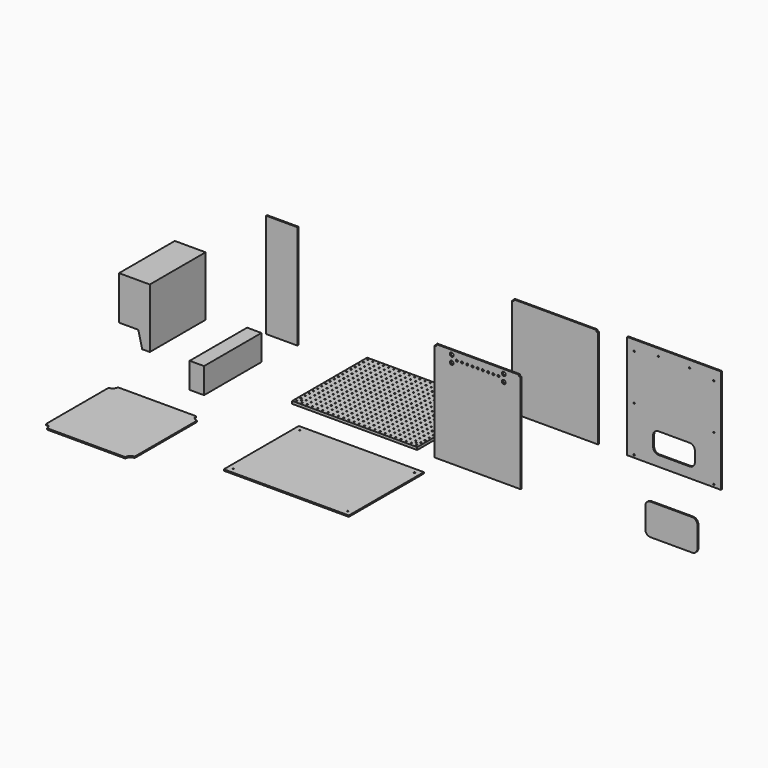
from build123d import *

# Parameters (mm, degrees)
F0_W      = 609.6
F0_H      = 457.2
F0_R      = 3.175
F1_DEPTH  = 12.7
F3_DEPTH  = 340
F4_W      = 70
F4_H      = 125
F5_DEPTH  = 350
F6_W      = 152.4
F6_H      = 6.35
F7_DEPTH  = 508
F8_W      = 609.6
F8_H      = 457.2
F8_R      = 3.175
F9_DEPTH  = 6.35
F11_DEPTH = 6.35
F13_R     = 4.7625
F13_R_2   = 9.2349540862
F14_DEPTH = 25.4
F17_DEPTH = 25.4
F19_DEPTH = 6.35
F21_DEPTH = 6.35
F22_W     = 7.62
F22_H     = 7.62
F23_DEPTH = 6.35
F24_R     = 3.175
F25_DEPTH = 25.4


with BuildPart() as f1:
    # F0 (on Top) → F1 (new body)
    with BuildSketch(Plane.XY):
        with Locations((304.8, 228.6)):
            Rectangle(F0_W, F0_H)
        with Locations((12.7, 12.7)):
            Circle(F0_R, mode=Mode.SUBTRACT)
        with Locations((25.4, 25.4)):
            Circle(F0_R, mode=Mode.SUBTRACT)
        with Locations((38.1, 12.7)):
            Circle(F0_R, mode=Mode.SUBTRACT)
        with Locations((63.5, 12.7)):
            Circle(F0_R, mode=Mode.SUBTRACT)
        with Locations((12.7, 38.1)):
            Circle(F0_R, mode=Mode.SUBTRACT)
        with Locations((38.1, 38.1)):
            Circle(F0_R, mode=Mode.SUBTRACT)
        with Locations((63.5, 38.1)):
            Circle(F0_R, mode=Mode.SUBTRACT)
        with Locations((88.9, 12.7)):
            Circle(F0_R, mode=Mode.SUBTRACT)
        with Locations((114.3, 12.7)):
            Circle(F0_R, mode=Mode.SUBTRACT)
        with Locations((139.7, 12.7)):
            Circle(F0_R, mode=Mode.SUBTRACT)
        with Locations((88.9, 38.1)):
            Circle(F0_R, mode=Mode.SUBTRACT)
        with Locations((114.3, 38.1)):
            Circle(F0_R, mode=Mode.SUBTRACT)
        with Locations((139.7, 38.1)):
            Circle(F0_R, mode=Mode.SUBTRACT)
        with Locations((12.7, 63.5)):
            Circle(F0_R, mode=Mode.SUBTRACT)
        with Locations((38.1, 63.5)):
            Circle(F0_R, mode=Mode.SUBTRACT)
        with Locations((63.5, 63.5)):
            Circle(F0_R, mode=Mode.SUBTRACT)
        with Locations((12.7, 88.9)):
            Circle(F0_R, mode=Mode.SUBTRACT)
        with Locations((38.1, 88.9)):
            Circle(F0_R, mode=Mode.SUBTRACT)
        with Locations((63.5, 88.9)):
            Circle(F0_R, mode=Mode.SUBTRACT)
        with Locations((88.9, 63.5)):
            Circle(F0_R, mode=Mode.SUBTRACT)
        with Locations((114.3, 63.5)):
            Circle(F0_R, mode=Mode.SUBTRACT)
        with Locations((139.7, 63.5)):
            Circle(F0_R, mode=Mode.SUBTRACT)
        with Locations((88.9, 88.9)):
            Circle(F0_R, mode=Mode.SUBTRACT)
        with Locations((114.3, 88.9)):
            Circle(F0_R, mode=Mode.SUBTRACT)
        with Locations((139.7, 88.9)):
            Circle(F0_R, mode=Mode.SUBTRACT)
        with Locations((165.1, 12.7)):
            Circle(F0_R, mode=Mode.SUBTRACT)
        with Locations((190.5, 12.7)):
            Circle(F0_R, mode=Mode.SUBTRACT)
        with Locations((215.9, 12.7)):
            Circle(F0_R, mode=Mode.SUBTRACT)
        with Locations((165.1, 38.1)):
            Circle(F0_R, mode=Mode.SUBTRACT)
        with Locations((190.5, 38.1)):
            Circle(F0_R, mode=Mode.SUBTRACT)
        with Locations((215.9, 38.1)):
            Circle(F0_R, mode=Mode.SUBTRACT)
        with Locations((241.3, 12.7)):
            Circle(F0_R, mode=Mode.SUBTRACT)
        with Locations((266.7, 12.7)):
            Circle(F0_R, mode=Mode.SUBTRACT)
        with Locations((292.1, 12.7)):
            Circle(F0_R, mode=Mode.SUBTRACT)
        with Locations((241.3, 38.1)):
            Circle(F0_R, mode=Mode.SUBTRACT)
        with Locations((266.7, 38.1)):
            Circle(F0_R, mode=Mode.SUBTRACT)
        with Locations((292.1, 38.1)):
            Circle(F0_R, mode=Mode.SUBTRACT)
        with Locations((165.1, 63.5)):
            Circle(F0_R, mode=Mode.SUBTRACT)
        with Locations((190.5, 63.5)):
            Circle(F0_R, mode=Mode.SUBTRACT)
        with Locations((215.9, 63.5)):
            Circle(F0_R, mode=Mode.SUBTRACT)
        with Locations((165.1, 88.9)):
            Circle(F0_R, mode=Mode.SUBTRACT)
        with Locations((190.5, 88.9)):
            Circle(F0_R, mode=Mode.SUBTRACT)
        with Locations((215.9, 88.9)):
            Circle(F0_R, mode=Mode.SUBTRACT)
        with Locations((241.3, 63.5)):
            Circle(F0_R, mode=Mode.SUBTRACT)
        with Locations((266.7, 63.5)):
            Circle(F0_R, mode=Mode.SUBTRACT)
        with Locations((292.1, 63.5)):
            Circle(F0_R, mode=Mode.SUBTRACT)
        with Locations((241.3, 88.9)):
            Circle(F0_R, mode=Mode.SUBTRACT)
        with Locations((266.7, 88.9)):
            Circle(F0_R, mode=Mode.SUBTRACT)
        with Locations((292.1, 88.9)):
            Circle(F0_R, mode=Mode.SUBTRACT)
        with Locations((12.7, 114.3)):
            Circle(F0_R, mode=Mode.SUBTRACT)
        with Locations((12.7, 139.7)):
            Circle(F0_R, mode=Mode.SUBTRACT)
        with Locations((38.1, 114.3)):
            Circle(F0_R, mode=Mode.SUBTRACT)
        with Locations((63.5, 114.3)):
            Circle(F0_R, mode=Mode.SUBTRACT)
        with Locations((38.1, 139.7)):
            Circle(F0_R, mode=Mode.SUBTRACT)
        with Locations((63.5, 139.7)):
            Circle(F0_R, mode=Mode.SUBTRACT)
        with Locations((12.7, 165.1)):
            Circle(F0_R, mode=Mode.SUBTRACT)
        with Locations((38.1, 165.1)):
            Circle(F0_R, mode=Mode.SUBTRACT)
        with Locations((63.5, 165.1)):
            Circle(F0_R, mode=Mode.SUBTRACT)
        with Locations((88.9, 114.3)):
            Circle(F0_R, mode=Mode.SUBTRACT)
        with Locations((88.9, 139.7)):
            Circle(F0_R, mode=Mode.SUBTRACT)
        with Locations((114.3, 114.3)):
            Circle(F0_R, mode=Mode.SUBTRACT)
        with Locations((139.7, 114.3)):
            Circle(F0_R, mode=Mode.SUBTRACT)
        with Locations((114.3, 139.7)):
            Circle(F0_R, mode=Mode.SUBTRACT)
        with Locations((139.7, 139.7)):
            Circle(F0_R, mode=Mode.SUBTRACT)
        with Locations((88.9, 165.1)):
            Circle(F0_R, mode=Mode.SUBTRACT)
        with Locations((114.3, 165.1)):
            Circle(F0_R, mode=Mode.SUBTRACT)
        with Locations((139.7, 165.1)):
            Circle(F0_R, mode=Mode.SUBTRACT)
        with Locations((12.7, 190.5)):
            Circle(F0_R, mode=Mode.SUBTRACT)
        with Locations((38.1, 190.5)):
            Circle(F0_R, mode=Mode.SUBTRACT)
        with Locations((63.5, 190.5)):
            Circle(F0_R, mode=Mode.SUBTRACT)
        with Locations((12.7, 215.9)):
            Circle(F0_R, mode=Mode.SUBTRACT)
        with Locations((38.1, 215.9)):
            Circle(F0_R, mode=Mode.SUBTRACT)
        with Locations((63.5, 215.9)):
            Circle(F0_R, mode=Mode.SUBTRACT)
        with Locations((88.9, 190.5)):
            Circle(F0_R, mode=Mode.SUBTRACT)
        with Locations((114.3, 190.5)):
            Circle(F0_R, mode=Mode.SUBTRACT)
        with Locations((139.7, 190.5)):
            Circle(F0_R, mode=Mode.SUBTRACT)
        with Locations((88.9, 215.9)):
            Circle(F0_R, mode=Mode.SUBTRACT)
        with Locations((114.3, 215.9)):
            Circle(F0_R, mode=Mode.SUBTRACT)
        with Locations((139.7, 215.9)):
            Circle(F0_R, mode=Mode.SUBTRACT)
        with Locations((165.1, 114.3)):
            Circle(F0_R, mode=Mode.SUBTRACT)
        with Locations((165.1, 139.7)):
            Circle(F0_R, mode=Mode.SUBTRACT)
        with Locations((190.5, 114.3)):
            Circle(F0_R, mode=Mode.SUBTRACT)
        with Locations((215.9, 114.3)):
            Circle(F0_R, mode=Mode.SUBTRACT)
        with Locations((190.5, 139.7)):
            Circle(F0_R, mode=Mode.SUBTRACT)
        with Locations((215.9, 139.7)):
            Circle(F0_R, mode=Mode.SUBTRACT)
        with Locations((165.1, 165.1)):
            Circle(F0_R, mode=Mode.SUBTRACT)
        with Locations((190.5, 165.1)):
            Circle(F0_R, mode=Mode.SUBTRACT)
        with Locations((215.9, 165.1)):
            Circle(F0_R, mode=Mode.SUBTRACT)
        with Locations((241.3, 114.3)):
            Circle(F0_R, mode=Mode.SUBTRACT)
        with Locations((241.3, 139.7)):
            Circle(F0_R, mode=Mode.SUBTRACT)
        with Locations((266.7, 114.3)):
            Circle(F0_R, mode=Mode.SUBTRACT)
        with Locations((292.1, 114.3)):
            Circle(F0_R, mode=Mode.SUBTRACT)
        with Locations((266.7, 139.7)):
            Circle(F0_R, mode=Mode.SUBTRACT)
        with Locations((292.1, 139.7)):
            Circle(F0_R, mode=Mode.SUBTRACT)
        with Locations((241.3, 165.1)):
            Circle(F0_R, mode=Mode.SUBTRACT)
        with Locations((266.7, 165.1)):
            Circle(F0_R, mode=Mode.SUBTRACT)
        with Locations((292.1, 165.1)):
            Circle(F0_R, mode=Mode.SUBTRACT)
        with Locations((165.1, 190.5)):
            Circle(F0_R, mode=Mode.SUBTRACT)
        with Locations((190.5, 190.5)):
            Circle(F0_R, mode=Mode.SUBTRACT)
        with Locations((215.9, 190.5)):
            Circle(F0_R, mode=Mode.SUBTRACT)
        with Locations((165.1, 215.9)):
            Circle(F0_R, mode=Mode.SUBTRACT)
        with Locations((190.5, 215.9)):
            Circle(F0_R, mode=Mode.SUBTRACT)
        with Locations((215.9, 215.9)):
            Circle(F0_R, mode=Mode.SUBTRACT)
        with Locations((241.3, 190.5)):
            Circle(F0_R, mode=Mode.SUBTRACT)
        with Locations((266.7, 190.5)):
            Circle(F0_R, mode=Mode.SUBTRACT)
        with Locations((292.1, 190.5)):
            Circle(F0_R, mode=Mode.SUBTRACT)
        with Locations((241.3, 215.9)):
            Circle(F0_R, mode=Mode.SUBTRACT)
        with Locations((266.7, 215.9)):
            Circle(F0_R, mode=Mode.SUBTRACT)
        with Locations((292.1, 215.9)):
            Circle(F0_R, mode=Mode.SUBTRACT)
        with Locations((317.5, 12.7)):
            Circle(F0_R, mode=Mode.SUBTRACT)
        with Locations((342.9, 12.7)):
            Circle(F0_R, mode=Mode.SUBTRACT)
        with Locations((368.3, 12.7)):
            Circle(F0_R, mode=Mode.SUBTRACT)
        with Locations((317.5, 38.1)):
            Circle(F0_R, mode=Mode.SUBTRACT)
        with Locations((342.9, 38.1)):
            Circle(F0_R, mode=Mode.SUBTRACT)
        with Locations((368.3, 38.1)):
            Circle(F0_R, mode=Mode.SUBTRACT)
        with Locations((393.7, 12.7)):
            Circle(F0_R, mode=Mode.SUBTRACT)
        with Locations((419.1, 12.7)):
            Circle(F0_R, mode=Mode.SUBTRACT)
        with Locations((444.5, 12.7)):
            Circle(F0_R, mode=Mode.SUBTRACT)
        with Locations((393.7, 38.1)):
            Circle(F0_R, mode=Mode.SUBTRACT)
        with Locations((419.1, 38.1)):
            Circle(F0_R, mode=Mode.SUBTRACT)
        with Locations((444.5, 38.1)):
            Circle(F0_R, mode=Mode.SUBTRACT)
        with Locations((317.5, 63.5)):
            Circle(F0_R, mode=Mode.SUBTRACT)
        with Locations((342.9, 63.5)):
            Circle(F0_R, mode=Mode.SUBTRACT)
        with Locations((368.3, 63.5)):
            Circle(F0_R, mode=Mode.SUBTRACT)
        with Locations((317.5, 88.9)):
            Circle(F0_R, mode=Mode.SUBTRACT)
        with Locations((342.9, 88.9)):
            Circle(F0_R, mode=Mode.SUBTRACT)
        with Locations((368.3, 88.9)):
            Circle(F0_R, mode=Mode.SUBTRACT)
        with Locations((393.7, 63.5)):
            Circle(F0_R, mode=Mode.SUBTRACT)
        with Locations((419.1, 63.5)):
            Circle(F0_R, mode=Mode.SUBTRACT)
        with Locations((444.5, 63.5)):
            Circle(F0_R, mode=Mode.SUBTRACT)
        with Locations((393.7, 88.9)):
            Circle(F0_R, mode=Mode.SUBTRACT)
        with Locations((419.1, 88.9)):
            Circle(F0_R, mode=Mode.SUBTRACT)
        with Locations((444.5, 88.9)):
            Circle(F0_R, mode=Mode.SUBTRACT)
        with Locations((469.9, 12.7)):
            Circle(F0_R, mode=Mode.SUBTRACT)
        with Locations((495.3, 12.7)):
            Circle(F0_R, mode=Mode.SUBTRACT)
        with Locations((520.7, 12.7)):
            Circle(F0_R, mode=Mode.SUBTRACT)
        with Locations((469.9, 38.1)):
            Circle(F0_R, mode=Mode.SUBTRACT)
        with Locations((495.3, 38.1)):
            Circle(F0_R, mode=Mode.SUBTRACT)
        with Locations((520.7, 38.1)):
            Circle(F0_R, mode=Mode.SUBTRACT)
        with Locations((546.1, 12.7)):
            Circle(F0_R, mode=Mode.SUBTRACT)
        with Locations((571.5, 12.7)):
            Circle(F0_R, mode=Mode.SUBTRACT)
        with Locations((596.9, 12.7)):
            Circle(F0_R, mode=Mode.SUBTRACT)
        with Locations((584.2, 25.4)):
            Circle(F0_R, mode=Mode.SUBTRACT)
        with Locations((546.1, 38.1)):
            Circle(F0_R, mode=Mode.SUBTRACT)
        with Locations((571.5, 38.1)):
            Circle(F0_R, mode=Mode.SUBTRACT)
        with Locations((596.9, 38.1)):
            Circle(F0_R, mode=Mode.SUBTRACT)
        with Locations((469.9, 63.5)):
            Circle(F0_R, mode=Mode.SUBTRACT)
        with Locations((495.3, 63.5)):
            Circle(F0_R, mode=Mode.SUBTRACT)
        with Locations((520.7, 63.5)):
            Circle(F0_R, mode=Mode.SUBTRACT)
        with Locations((469.9, 88.9)):
            Circle(F0_R, mode=Mode.SUBTRACT)
        with Locations((495.3, 88.9)):
            Circle(F0_R, mode=Mode.SUBTRACT)
        with Locations((520.7, 88.9)):
            Circle(F0_R, mode=Mode.SUBTRACT)
        with Locations((546.1, 63.5)):
            Circle(F0_R, mode=Mode.SUBTRACT)
        with Locations((571.5, 63.5)):
            Circle(F0_R, mode=Mode.SUBTRACT)
        with Locations((596.9, 63.5)):
            Circle(F0_R, mode=Mode.SUBTRACT)
        with Locations((546.1, 88.9)):
            Circle(F0_R, mode=Mode.SUBTRACT)
        with Locations((571.5, 88.9)):
            Circle(F0_R, mode=Mode.SUBTRACT)
        with Locations((596.9, 88.9)):
            Circle(F0_R, mode=Mode.SUBTRACT)
        with Locations((317.5, 114.3)):
            Circle(F0_R, mode=Mode.SUBTRACT)
        with Locations((317.5, 139.7)):
            Circle(F0_R, mode=Mode.SUBTRACT)
        with Locations((342.9, 114.3)):
            Circle(F0_R, mode=Mode.SUBTRACT)
        with Locations((368.3, 114.3)):
            Circle(F0_R, mode=Mode.SUBTRACT)
        with Locations((342.9, 139.7)):
            Circle(F0_R, mode=Mode.SUBTRACT)
        with Locations((368.3, 139.7)):
            Circle(F0_R, mode=Mode.SUBTRACT)
        with Locations((317.5, 165.1)):
            Circle(F0_R, mode=Mode.SUBTRACT)
        with Locations((342.9, 165.1)):
            Circle(F0_R, mode=Mode.SUBTRACT)
        with Locations((368.3, 165.1)):
            Circle(F0_R, mode=Mode.SUBTRACT)
        with Locations((393.7, 114.3)):
            Circle(F0_R, mode=Mode.SUBTRACT)
        with Locations((393.7, 139.7)):
            Circle(F0_R, mode=Mode.SUBTRACT)
        with Locations((419.1, 114.3)):
            Circle(F0_R, mode=Mode.SUBTRACT)
        with Locations((444.5, 114.3)):
            Circle(F0_R, mode=Mode.SUBTRACT)
        with Locations((419.1, 139.7)):
            Circle(F0_R, mode=Mode.SUBTRACT)
        with Locations((444.5, 139.7)):
            Circle(F0_R, mode=Mode.SUBTRACT)
        with Locations((393.7, 165.1)):
            Circle(F0_R, mode=Mode.SUBTRACT)
        with Locations((419.1, 165.1)):
            Circle(F0_R, mode=Mode.SUBTRACT)
        with Locations((444.5, 165.1)):
            Circle(F0_R, mode=Mode.SUBTRACT)
        with Locations((317.5, 190.5)):
            Circle(F0_R, mode=Mode.SUBTRACT)
        with Locations((342.9, 190.5)):
            Circle(F0_R, mode=Mode.SUBTRACT)
        with Locations((368.3, 190.5)):
            Circle(F0_R, mode=Mode.SUBTRACT)
        with Locations((317.5, 215.9)):
            Circle(F0_R, mode=Mode.SUBTRACT)
        with Locations((342.9, 215.9)):
            Circle(F0_R, mode=Mode.SUBTRACT)
        with Locations((368.3, 215.9)):
            Circle(F0_R, mode=Mode.SUBTRACT)
        with Locations((393.7, 190.5)):
            Circle(F0_R, mode=Mode.SUBTRACT)
        with Locations((419.1, 190.5)):
            Circle(F0_R, mode=Mode.SUBTRACT)
        with Locations((444.5, 190.5)):
            Circle(F0_R, mode=Mode.SUBTRACT)
        with Locations((393.7, 215.9)):
            Circle(F0_R, mode=Mode.SUBTRACT)
        with Locations((419.1, 215.9)):
            Circle(F0_R, mode=Mode.SUBTRACT)
        with Locations((444.5, 215.9)):
            Circle(F0_R, mode=Mode.SUBTRACT)
        with Locations((469.9, 114.3)):
            Circle(F0_R, mode=Mode.SUBTRACT)
        with Locations((469.9, 139.7)):
            Circle(F0_R, mode=Mode.SUBTRACT)
        with Locations((495.3, 114.3)):
            Circle(F0_R, mode=Mode.SUBTRACT)
        with Locations((520.7, 114.3)):
            Circle(F0_R, mode=Mode.SUBTRACT)
        with Locations((495.3, 139.7)):
            Circle(F0_R, mode=Mode.SUBTRACT)
        with Locations((520.7, 139.7)):
            Circle(F0_R, mode=Mode.SUBTRACT)
        with Locations((469.9, 165.1)):
            Circle(F0_R, mode=Mode.SUBTRACT)
        with Locations((495.3, 165.1)):
            Circle(F0_R, mode=Mode.SUBTRACT)
        with Locations((520.7, 165.1)):
            Circle(F0_R, mode=Mode.SUBTRACT)
        with Locations((546.1, 114.3)):
            Circle(F0_R, mode=Mode.SUBTRACT)
        with Locations((546.1, 139.7)):
            Circle(F0_R, mode=Mode.SUBTRACT)
        with Locations((571.5, 114.3)):
            Circle(F0_R, mode=Mode.SUBTRACT)
        with Locations((596.9, 114.3)):
            Circle(F0_R, mode=Mode.SUBTRACT)
        with Locations((571.5, 139.7)):
            Circle(F0_R, mode=Mode.SUBTRACT)
        with Locations((596.9, 139.7)):
            Circle(F0_R, mode=Mode.SUBTRACT)
        with Locations((546.1, 165.1)):
            Circle(F0_R, mode=Mode.SUBTRACT)
        with Locations((571.5, 165.1)):
            Circle(F0_R, mode=Mode.SUBTRACT)
        with Locations((596.9, 165.1)):
            Circle(F0_R, mode=Mode.SUBTRACT)
        with Locations((469.9, 190.5)):
            Circle(F0_R, mode=Mode.SUBTRACT)
        with Locations((495.3, 190.5)):
            Circle(F0_R, mode=Mode.SUBTRACT)
        with Locations((520.7, 190.5)):
            Circle(F0_R, mode=Mode.SUBTRACT)
        with Locations((469.9, 215.9)):
            Circle(F0_R, mode=Mode.SUBTRACT)
        with Locations((495.3, 215.9)):
            Circle(F0_R, mode=Mode.SUBTRACT)
        with Locations((520.7, 215.9)):
            Circle(F0_R, mode=Mode.SUBTRACT)
        with Locations((546.1, 190.5)):
            Circle(F0_R, mode=Mode.SUBTRACT)
        with Locations((571.5, 190.5)):
            Circle(F0_R, mode=Mode.SUBTRACT)
        with Locations((596.9, 190.5)):
            Circle(F0_R, mode=Mode.SUBTRACT)
        with Locations((546.1, 215.9)):
            Circle(F0_R, mode=Mode.SUBTRACT)
        with Locations((571.5, 215.9)):
            Circle(F0_R, mode=Mode.SUBTRACT)
        with Locations((596.9, 215.9)):
            Circle(F0_R, mode=Mode.SUBTRACT)
        with Locations((12.7, 241.3)):
            Circle(F0_R, mode=Mode.SUBTRACT)
        with Locations((38.1, 241.3)):
            Circle(F0_R, mode=Mode.SUBTRACT)
        with Locations((63.5, 241.3)):
            Circle(F0_R, mode=Mode.SUBTRACT)
        with Locations((12.7, 266.7)):
            Circle(F0_R, mode=Mode.SUBTRACT)
        with Locations((38.1, 266.7)):
            Circle(F0_R, mode=Mode.SUBTRACT)
        with Locations((63.5, 266.7)):
            Circle(F0_R, mode=Mode.SUBTRACT)
        with Locations((88.9, 241.3)):
            Circle(F0_R, mode=Mode.SUBTRACT)
        with Locations((114.3, 241.3)):
            Circle(F0_R, mode=Mode.SUBTRACT)
        with Locations((139.7, 241.3)):
            Circle(F0_R, mode=Mode.SUBTRACT)
        with Locations((88.9, 266.7)):
            Circle(F0_R, mode=Mode.SUBTRACT)
        with Locations((114.3, 266.7)):
            Circle(F0_R, mode=Mode.SUBTRACT)
        with Locations((139.7, 266.7)):
            Circle(F0_R, mode=Mode.SUBTRACT)
        with Locations((12.7, 292.1)):
            Circle(F0_R, mode=Mode.SUBTRACT)
        with Locations((38.1, 292.1)):
            Circle(F0_R, mode=Mode.SUBTRACT)
        with Locations((63.5, 292.1)):
            Circle(F0_R, mode=Mode.SUBTRACT)
        with Locations((12.7, 317.5)):
            Circle(F0_R, mode=Mode.SUBTRACT)
        with Locations((38.1, 317.5)):
            Circle(F0_R, mode=Mode.SUBTRACT)
        with Locations((63.5, 317.5)):
            Circle(F0_R, mode=Mode.SUBTRACT)
        with Locations((88.9, 292.1)):
            Circle(F0_R, mode=Mode.SUBTRACT)
        with Locations((114.3, 292.1)):
            Circle(F0_R, mode=Mode.SUBTRACT)
        with Locations((139.7, 292.1)):
            Circle(F0_R, mode=Mode.SUBTRACT)
        with Locations((88.9, 317.5)):
            Circle(F0_R, mode=Mode.SUBTRACT)
        with Locations((114.3, 317.5)):
            Circle(F0_R, mode=Mode.SUBTRACT)
        with Locations((139.7, 317.5)):
            Circle(F0_R, mode=Mode.SUBTRACT)
        with Locations((165.1, 241.3)):
            Circle(F0_R, mode=Mode.SUBTRACT)
        with Locations((190.5, 241.3)):
            Circle(F0_R, mode=Mode.SUBTRACT)
        with Locations((215.9, 241.3)):
            Circle(F0_R, mode=Mode.SUBTRACT)
        with Locations((165.1, 266.7)):
            Circle(F0_R, mode=Mode.SUBTRACT)
        with Locations((190.5, 266.7)):
            Circle(F0_R, mode=Mode.SUBTRACT)
        with Locations((215.9, 266.7)):
            Circle(F0_R, mode=Mode.SUBTRACT)
        with Locations((241.3, 241.3)):
            Circle(F0_R, mode=Mode.SUBTRACT)
        with Locations((266.7, 241.3)):
            Circle(F0_R, mode=Mode.SUBTRACT)
        with Locations((292.1, 241.3)):
            Circle(F0_R, mode=Mode.SUBTRACT)
        with Locations((241.3, 266.7)):
            Circle(F0_R, mode=Mode.SUBTRACT)
        with Locations((266.7, 266.7)):
            Circle(F0_R, mode=Mode.SUBTRACT)
        with Locations((292.1, 266.7)):
            Circle(F0_R, mode=Mode.SUBTRACT)
        with Locations((165.1, 292.1)):
            Circle(F0_R, mode=Mode.SUBTRACT)
        with Locations((190.5, 292.1)):
            Circle(F0_R, mode=Mode.SUBTRACT)
        with Locations((215.9, 292.1)):
            Circle(F0_R, mode=Mode.SUBTRACT)
        with Locations((165.1, 317.5)):
            Circle(F0_R, mode=Mode.SUBTRACT)
        with Locations((190.5, 317.5)):
            Circle(F0_R, mode=Mode.SUBTRACT)
        with Locations((215.9, 317.5)):
            Circle(F0_R, mode=Mode.SUBTRACT)
        with Locations((241.3, 292.1)):
            Circle(F0_R, mode=Mode.SUBTRACT)
        with Locations((266.7, 292.1)):
            Circle(F0_R, mode=Mode.SUBTRACT)
        with Locations((292.1, 292.1)):
            Circle(F0_R, mode=Mode.SUBTRACT)
        with Locations((241.3, 317.5)):
            Circle(F0_R, mode=Mode.SUBTRACT)
        with Locations((266.7, 317.5)):
            Circle(F0_R, mode=Mode.SUBTRACT)
        with Locations((292.1, 317.5)):
            Circle(F0_R, mode=Mode.SUBTRACT)
        with Locations((12.7, 342.9)):
            Circle(F0_R, mode=Mode.SUBTRACT)
        with Locations((12.7, 368.3)):
            Circle(F0_R, mode=Mode.SUBTRACT)
        with Locations((38.1, 342.9)):
            Circle(F0_R, mode=Mode.SUBTRACT)
        with Locations((63.5, 342.9)):
            Circle(F0_R, mode=Mode.SUBTRACT)
        with Locations((38.1, 368.3)):
            Circle(F0_R, mode=Mode.SUBTRACT)
        with Locations((63.5, 368.3)):
            Circle(F0_R, mode=Mode.SUBTRACT)
        with Locations((12.7, 393.7)):
            Circle(F0_R, mode=Mode.SUBTRACT)
        with Locations((38.1, 393.7)):
            Circle(F0_R, mode=Mode.SUBTRACT)
        with Locations((63.5, 393.7)):
            Circle(F0_R, mode=Mode.SUBTRACT)
        with Locations((88.9, 342.9)):
            Circle(F0_R, mode=Mode.SUBTRACT)
        with Locations((88.9, 368.3)):
            Circle(F0_R, mode=Mode.SUBTRACT)
        with Locations((114.3, 342.9)):
            Circle(F0_R, mode=Mode.SUBTRACT)
        with Locations((139.7, 342.9)):
            Circle(F0_R, mode=Mode.SUBTRACT)
        with Locations((114.3, 368.3)):
            Circle(F0_R, mode=Mode.SUBTRACT)
        with Locations((139.7, 368.3)):
            Circle(F0_R, mode=Mode.SUBTRACT)
        with Locations((88.9, 393.7)):
            Circle(F0_R, mode=Mode.SUBTRACT)
        with Locations((114.3, 393.7)):
            Circle(F0_R, mode=Mode.SUBTRACT)
        with Locations((139.7, 393.7)):
            Circle(F0_R, mode=Mode.SUBTRACT)
        with Locations((12.7, 419.1)):
            Circle(F0_R, mode=Mode.SUBTRACT)
        with Locations((38.1, 419.1)):
            Circle(F0_R, mode=Mode.SUBTRACT)
        with Locations((63.5, 419.1)):
            Circle(F0_R, mode=Mode.SUBTRACT)
        with Locations((12.7, 444.5)):
            Circle(F0_R, mode=Mode.SUBTRACT)
        with Locations((38.1, 444.5)):
            Circle(F0_R, mode=Mode.SUBTRACT)
        with Locations((63.5, 444.5)):
            Circle(F0_R, mode=Mode.SUBTRACT)
        with Locations((88.9, 419.1)):
            Circle(F0_R, mode=Mode.SUBTRACT)
        with Locations((114.3, 419.1)):
            Circle(F0_R, mode=Mode.SUBTRACT)
        with Locations((139.7, 419.1)):
            Circle(F0_R, mode=Mode.SUBTRACT)
        with Locations((88.9, 444.5)):
            Circle(F0_R, mode=Mode.SUBTRACT)
        with Locations((114.3, 444.5)):
            Circle(F0_R, mode=Mode.SUBTRACT)
        with Locations((139.7, 444.5)):
            Circle(F0_R, mode=Mode.SUBTRACT)
        with Locations((165.1, 342.9)):
            Circle(F0_R, mode=Mode.SUBTRACT)
        with Locations((165.1, 368.3)):
            Circle(F0_R, mode=Mode.SUBTRACT)
        with Locations((190.5, 342.9)):
            Circle(F0_R, mode=Mode.SUBTRACT)
        with Locations((215.9, 342.9)):
            Circle(F0_R, mode=Mode.SUBTRACT)
        with Locations((190.5, 368.3)):
            Circle(F0_R, mode=Mode.SUBTRACT)
        with Locations((215.9, 368.3)):
            Circle(F0_R, mode=Mode.SUBTRACT)
        with Locations((165.1, 393.7)):
            Circle(F0_R, mode=Mode.SUBTRACT)
        with Locations((190.5, 393.7)):
            Circle(F0_R, mode=Mode.SUBTRACT)
        with Locations((215.9, 393.7)):
            Circle(F0_R, mode=Mode.SUBTRACT)
        with Locations((241.3, 342.9)):
            Circle(F0_R, mode=Mode.SUBTRACT)
        with Locations((241.3, 368.3)):
            Circle(F0_R, mode=Mode.SUBTRACT)
        with Locations((266.7, 342.9)):
            Circle(F0_R, mode=Mode.SUBTRACT)
        with Locations((292.1, 342.9)):
            Circle(F0_R, mode=Mode.SUBTRACT)
        with Locations((266.7, 368.3)):
            Circle(F0_R, mode=Mode.SUBTRACT)
        with Locations((292.1, 368.3)):
            Circle(F0_R, mode=Mode.SUBTRACT)
        with Locations((241.3, 393.7)):
            Circle(F0_R, mode=Mode.SUBTRACT)
        with Locations((266.7, 393.7)):
            Circle(F0_R, mode=Mode.SUBTRACT)
        with Locations((292.1, 393.7)):
            Circle(F0_R, mode=Mode.SUBTRACT)
        with Locations((165.1, 419.1)):
            Circle(F0_R, mode=Mode.SUBTRACT)
        with Locations((190.5, 419.1)):
            Circle(F0_R, mode=Mode.SUBTRACT)
        with Locations((215.9, 419.1)):
            Circle(F0_R, mode=Mode.SUBTRACT)
        with Locations((165.1, 444.5)):
            Circle(F0_R, mode=Mode.SUBTRACT)
        with Locations((190.5, 444.5)):
            Circle(F0_R, mode=Mode.SUBTRACT)
        with Locations((215.9, 444.5)):
            Circle(F0_R, mode=Mode.SUBTRACT)
        with Locations((241.3, 419.1)):
            Circle(F0_R, mode=Mode.SUBTRACT)
        with Locations((266.7, 419.1)):
            Circle(F0_R, mode=Mode.SUBTRACT)
        with Locations((292.1, 419.1)):
            Circle(F0_R, mode=Mode.SUBTRACT)
        with Locations((241.3, 444.5)):
            Circle(F0_R, mode=Mode.SUBTRACT)
        with Locations((266.7, 444.5)):
            Circle(F0_R, mode=Mode.SUBTRACT)
        with Locations((292.1, 444.5)):
            Circle(F0_R, mode=Mode.SUBTRACT)
        with Locations((317.5, 241.3)):
            Circle(F0_R, mode=Mode.SUBTRACT)
        with Locations((342.9, 241.3)):
            Circle(F0_R, mode=Mode.SUBTRACT)
        with Locations((368.3, 241.3)):
            Circle(F0_R, mode=Mode.SUBTRACT)
        with Locations((317.5, 266.7)):
            Circle(F0_R, mode=Mode.SUBTRACT)
        with Locations((342.9, 266.7)):
            Circle(F0_R, mode=Mode.SUBTRACT)
        with Locations((368.3, 266.7)):
            Circle(F0_R, mode=Mode.SUBTRACT)
        with Locations((393.7, 241.3)):
            Circle(F0_R, mode=Mode.SUBTRACT)
        with Locations((419.1, 241.3)):
            Circle(F0_R, mode=Mode.SUBTRACT)
        with Locations((444.5, 241.3)):
            Circle(F0_R, mode=Mode.SUBTRACT)
        with Locations((393.7, 266.7)):
            Circle(F0_R, mode=Mode.SUBTRACT)
        with Locations((419.1, 266.7)):
            Circle(F0_R, mode=Mode.SUBTRACT)
        with Locations((444.5, 266.7)):
            Circle(F0_R, mode=Mode.SUBTRACT)
        with Locations((317.5, 292.1)):
            Circle(F0_R, mode=Mode.SUBTRACT)
        with Locations((342.9, 292.1)):
            Circle(F0_R, mode=Mode.SUBTRACT)
        with Locations((368.3, 292.1)):
            Circle(F0_R, mode=Mode.SUBTRACT)
        with Locations((317.5, 317.5)):
            Circle(F0_R, mode=Mode.SUBTRACT)
        with Locations((342.9, 317.5)):
            Circle(F0_R, mode=Mode.SUBTRACT)
        with Locations((368.3, 317.5)):
            Circle(F0_R, mode=Mode.SUBTRACT)
        with Locations((393.7, 292.1)):
            Circle(F0_R, mode=Mode.SUBTRACT)
        with Locations((419.1, 292.1)):
            Circle(F0_R, mode=Mode.SUBTRACT)
        with Locations((444.5, 292.1)):
            Circle(F0_R, mode=Mode.SUBTRACT)
        with Locations((393.7, 317.5)):
            Circle(F0_R, mode=Mode.SUBTRACT)
        with Locations((419.1, 317.5)):
            Circle(F0_R, mode=Mode.SUBTRACT)
        with Locations((444.5, 317.5)):
            Circle(F0_R, mode=Mode.SUBTRACT)
        with Locations((469.9, 241.3)):
            Circle(F0_R, mode=Mode.SUBTRACT)
        with Locations((495.3, 241.3)):
            Circle(F0_R, mode=Mode.SUBTRACT)
        with Locations((520.7, 241.3)):
            Circle(F0_R, mode=Mode.SUBTRACT)
        with Locations((469.9, 266.7)):
            Circle(F0_R, mode=Mode.SUBTRACT)
        with Locations((495.3, 266.7)):
            Circle(F0_R, mode=Mode.SUBTRACT)
        with Locations((520.7, 266.7)):
            Circle(F0_R, mode=Mode.SUBTRACT)
        with Locations((546.1, 241.3)):
            Circle(F0_R, mode=Mode.SUBTRACT)
        with Locations((571.5, 241.3)):
            Circle(F0_R, mode=Mode.SUBTRACT)
        with Locations((596.9, 241.3)):
            Circle(F0_R, mode=Mode.SUBTRACT)
        with Locations((546.1, 266.7)):
            Circle(F0_R, mode=Mode.SUBTRACT)
        with Locations((571.5, 266.7)):
            Circle(F0_R, mode=Mode.SUBTRACT)
        with Locations((596.9, 266.7)):
            Circle(F0_R, mode=Mode.SUBTRACT)
        with Locations((469.9, 292.1)):
            Circle(F0_R, mode=Mode.SUBTRACT)
        with Locations((495.3, 292.1)):
            Circle(F0_R, mode=Mode.SUBTRACT)
        with Locations((520.7, 292.1)):
            Circle(F0_R, mode=Mode.SUBTRACT)
        with Locations((469.9, 317.5)):
            Circle(F0_R, mode=Mode.SUBTRACT)
        with Locations((495.3, 317.5)):
            Circle(F0_R, mode=Mode.SUBTRACT)
        with Locations((520.7, 317.5)):
            Circle(F0_R, mode=Mode.SUBTRACT)
        with Locations((546.1, 292.1)):
            Circle(F0_R, mode=Mode.SUBTRACT)
        with Locations((571.5, 292.1)):
            Circle(F0_R, mode=Mode.SUBTRACT)
        with Locations((596.9, 292.1)):
            Circle(F0_R, mode=Mode.SUBTRACT)
        with Locations((546.1, 317.5)):
            Circle(F0_R, mode=Mode.SUBTRACT)
        with Locations((571.5, 317.5)):
            Circle(F0_R, mode=Mode.SUBTRACT)
        with Locations((596.9, 317.5)):
            Circle(F0_R, mode=Mode.SUBTRACT)
        with Locations((317.5, 342.9)):
            Circle(F0_R, mode=Mode.SUBTRACT)
        with Locations((317.5, 368.3)):
            Circle(F0_R, mode=Mode.SUBTRACT)
        with Locations((342.9, 342.9)):
            Circle(F0_R, mode=Mode.SUBTRACT)
        with Locations((368.3, 342.9)):
            Circle(F0_R, mode=Mode.SUBTRACT)
        with Locations((342.9, 368.3)):
            Circle(F0_R, mode=Mode.SUBTRACT)
        with Locations((368.3, 368.3)):
            Circle(F0_R, mode=Mode.SUBTRACT)
        with Locations((317.5, 393.7)):
            Circle(F0_R, mode=Mode.SUBTRACT)
        with Locations((342.9, 393.7)):
            Circle(F0_R, mode=Mode.SUBTRACT)
        with Locations((368.3, 393.7)):
            Circle(F0_R, mode=Mode.SUBTRACT)
        with Locations((393.7, 342.9)):
            Circle(F0_R, mode=Mode.SUBTRACT)
        with Locations((393.7, 368.3)):
            Circle(F0_R, mode=Mode.SUBTRACT)
        with Locations((419.1, 342.9)):
            Circle(F0_R, mode=Mode.SUBTRACT)
        with Locations((444.5, 342.9)):
            Circle(F0_R, mode=Mode.SUBTRACT)
        with Locations((419.1, 368.3)):
            Circle(F0_R, mode=Mode.SUBTRACT)
        with Locations((444.5, 368.3)):
            Circle(F0_R, mode=Mode.SUBTRACT)
        with Locations((393.7, 393.7)):
            Circle(F0_R, mode=Mode.SUBTRACT)
        with Locations((419.1, 393.7)):
            Circle(F0_R, mode=Mode.SUBTRACT)
        with Locations((444.5, 393.7)):
            Circle(F0_R, mode=Mode.SUBTRACT)
        with Locations((317.5, 419.1)):
            Circle(F0_R, mode=Mode.SUBTRACT)
        with Locations((342.9, 419.1)):
            Circle(F0_R, mode=Mode.SUBTRACT)
        with Locations((368.3, 419.1)):
            Circle(F0_R, mode=Mode.SUBTRACT)
        with Locations((317.5, 444.5)):
            Circle(F0_R, mode=Mode.SUBTRACT)
        with Locations((342.9, 444.5)):
            Circle(F0_R, mode=Mode.SUBTRACT)
        with Locations((368.3, 444.5)):
            Circle(F0_R, mode=Mode.SUBTRACT)
        with Locations((393.7, 419.1)):
            Circle(F0_R, mode=Mode.SUBTRACT)
        with Locations((419.1, 419.1)):
            Circle(F0_R, mode=Mode.SUBTRACT)
        with Locations((444.5, 419.1)):
            Circle(F0_R, mode=Mode.SUBTRACT)
        with Locations((393.7, 444.5)):
            Circle(F0_R, mode=Mode.SUBTRACT)
        with Locations((419.1, 444.5)):
            Circle(F0_R, mode=Mode.SUBTRACT)
        with Locations((444.5, 444.5)):
            Circle(F0_R, mode=Mode.SUBTRACT)
        with Locations((469.9, 342.9)):
            Circle(F0_R, mode=Mode.SUBTRACT)
        with Locations((469.9, 368.3)):
            Circle(F0_R, mode=Mode.SUBTRACT)
        with Locations((495.3, 342.9)):
            Circle(F0_R, mode=Mode.SUBTRACT)
        with Locations((520.7, 342.9)):
            Circle(F0_R, mode=Mode.SUBTRACT)
        with Locations((495.3, 368.3)):
            Circle(F0_R, mode=Mode.SUBTRACT)
        with Locations((520.7, 368.3)):
            Circle(F0_R, mode=Mode.SUBTRACT)
        with Locations((469.9, 393.7)):
            Circle(F0_R, mode=Mode.SUBTRACT)
        with Locations((495.3, 393.7)):
            Circle(F0_R, mode=Mode.SUBTRACT)
        with Locations((520.7, 393.7)):
            Circle(F0_R, mode=Mode.SUBTRACT)
        with Locations((546.1, 342.9)):
            Circle(F0_R, mode=Mode.SUBTRACT)
        with Locations((546.1, 368.3)):
            Circle(F0_R, mode=Mode.SUBTRACT)
        with Locations((571.5, 342.9)):
            Circle(F0_R, mode=Mode.SUBTRACT)
        with Locations((596.9, 342.9)):
            Circle(F0_R, mode=Mode.SUBTRACT)
        with Locations((571.5, 368.3)):
            Circle(F0_R, mode=Mode.SUBTRACT)
        with Locations((596.9, 368.3)):
            Circle(F0_R, mode=Mode.SUBTRACT)
        with Locations((546.1, 393.7)):
            Circle(F0_R, mode=Mode.SUBTRACT)
        with Locations((571.5, 393.7)):
            Circle(F0_R, mode=Mode.SUBTRACT)
        with Locations((596.9, 393.7)):
            Circle(F0_R, mode=Mode.SUBTRACT)
        with Locations((469.9, 419.1)):
            Circle(F0_R, mode=Mode.SUBTRACT)
        with Locations((495.3, 419.1)):
            Circle(F0_R, mode=Mode.SUBTRACT)
        with Locations((520.7, 419.1)):
            Circle(F0_R, mode=Mode.SUBTRACT)
        with Locations((469.9, 444.5)):
            Circle(F0_R, mode=Mode.SUBTRACT)
        with Locations((495.3, 444.5)):
            Circle(F0_R, mode=Mode.SUBTRACT)
        with Locations((520.7, 444.5)):
            Circle(F0_R, mode=Mode.SUBTRACT)
        with Locations((546.1, 419.1)):
            Circle(F0_R, mode=Mode.SUBTRACT)
        with Locations((571.5, 419.1)):
            Circle(F0_R, mode=Mode.SUBTRACT)
        with Locations((596.9, 419.1)):
            Circle(F0_R, mode=Mode.SUBTRACT)
        with Locations((546.1, 444.5)):
            Circle(F0_R, mode=Mode.SUBTRACT)
        with Locations((584.2, 431.8)):
            Circle(F0_R, mode=Mode.SUBTRACT)
        with Locations((571.5, 444.5)):
            Circle(F0_R, mode=Mode.SUBTRACT)
        with Locations((596.9, 444.5)):
            Circle(F0_R, mode=Mode.SUBTRACT)
    extrude(amount=F1_DEPTH)


with BuildPart() as f3:
    # F2 (on Front) → F3 (new body)
    with BuildSketch(Plane.XZ):
        Polygon((-422.0882534981, 223.3925423596), (-422.0882534981, 513.3925423596), (-572.0882534981, 513.3925423596), (-572.0882534981, 300.7887952867), (-477.9481352636, 300.7887952867), (-459.1903561896, 223.3925423596), align=None)
    extrude(amount=F3_DEPTH)


with BuildPart() as f5:
    # F4 (on Front) → F5 (new body)
    with BuildSketch(Plane.XZ):
        with Locations((-184.6591979265, 193.288217945)):
            Rectangle(F4_W, F4_H)
    extrude(amount=F5_DEPTH)


with BuildPart() as f7:
    # F6 (on Top) → F7 (new body)
    with BuildSketch(Plane.XY):
        with Locations((-361.2149432302, 390.663007192)):
            Rectangle(F6_W, F6_H)
    extrude(amount=F7_DEPTH)


with BuildPart() as f9:
    # F8 (on Top) → F9 (new body)
    with BuildSketch(Plane.XY):
        with Locations((445.9336567176, -364.3014505506)):
            Rectangle(F8_W, F8_H)
        with Locations((166.5336567176, -567.5014505506)):
            Circle(F8_R, mode=Mode.SUBTRACT)
        with Locations((725.3336567176, -567.5014505506)):
            Circle(F8_R, mode=Mode.SUBTRACT)
        with Locations((166.5336567176, -161.1014505506)):
            Circle(F8_R, mode=Mode.SUBTRACT)
        with Locations((725.3336567176, -161.1014505506)):
            Circle(F8_R, mode=Mode.SUBTRACT)
    extrude(amount=F9_DEPTH)


with BuildPart() as f11:
    # F10 (on Front) → F11 (new body)
    with BuildSketch(Plane.XZ):
        Polygon((1111.638499128, 488.95), (707.778499128, 488.95), (707.778499128, 481.33), (700.158499128, 481.33), (700.158499128, 0), (1119.258499128, 0), (1119.258499128, 481.33), (1111.638499128, 481.33), align=None)
    extrude(amount=F11_DEPTH)


with BuildPart() as f12_1:
    # F12: copy of F11
    add(f11.part.moved(Location((0, 472.44, 0))))


with BuildPart() as f11_1:
    add(f11.part)

    # F13 (on face) → F14 (cut)
    with BuildSketch(Plane.XZ.offset(6.35)):
        with Locations((808.108499128, 450.85)):
            Circle(F13_R)
        with Locations((833.508499128, 450.85)):
            Circle(F13_R)
        with Locations((858.908499128, 450.85)):
            Circle(F13_R)
        with Locations((884.308499128, 450.85)):
            Circle(F13_R)
        with Locations((909.708499128, 450.85)):
            Circle(F13_R)
        with Locations((935.108499128, 450.85)):
            Circle(F13_R)
        with Locations((960.508499128, 450.85)):
            Circle(F13_R)
        with Locations((985.908499128, 450.85)):
            Circle(F13_R)
        with Locations((1011.308499128, 450.85)):
            Circle(F13_R)
        with Locations((782.708499128, 468.2463159323)):
            Circle(F13_R_2)
        with Locations((782.708499128, 433.4536840677)):
            Circle(F13_R_2)
        with Locations((1036.708499128, 468.2463159323)):
            Circle(F13_R_2)
        with Locations((1036.708499128, 433.4536840677)):
            Circle(F13_R_2)
    extrude(amount=-F14_DEPTH, mode=Mode.SUBTRACT)


with BuildPart() as f15_1:
    # F15: copy of F12_1
    add(f12_1.part.moved(Location((579.12, 0, 0))))

    # F16 (on face) → F17 (cut)
    with BuildSketch(Plane.XZ.offset(-466.09)):
        with BuildLine():
            Line((1565.028499128, 152.4), (1412.628499128, 152.4))
            ThreePointArc((1412.628499128, 152.4), (1394.6679868859, 144.9605122421), (1387.228499128, 127))
            Line((1387.228499128, 127), (1387.228499128, 76.2))
            ThreePointArc((1387.228499128, 76.2), (1394.6679868859, 58.2394877579), (1412.628499128, 50.8))
            Line((1412.628499128, 50.8), (1565.028499128, 50.8))
            ThreePointArc((1565.028499128, 50.8), (1582.9890113701, 58.2394877579), (1590.428499128, 76.2))
            Line((1590.428499128, 76.2), (1590.428499128, 127))
            ThreePointArc((1590.428499128, 127), (1582.9890113701, 144.9605122421), (1565.028499128, 152.4))
        make_face()
    extrude(amount=-F17_DEPTH, mode=Mode.SUBTRACT)

    # F22 (on face) → F23 (join, through all)
    with BuildSketch(Plane.XZ.offset(-466.09)):
        Polygon((1698.378499128, 481.33), (1698.378499128, 0), (1717.428499128, 0), (1717.428499128, 488.95), (1698.378499128, 488.95), align=None)
        with Locations((1694.568499128, 485.14)):
            Rectangle(F22_W, F22_H)
        Polygon((1698.378499128, 488.95), (1717.428499128, 488.95), (1717.428499128, 508), (1260.228499128, 508), (1260.228499128, 488.95), (1279.278499128, 488.95), (1286.898499128, 488.95), (1690.758499128, 488.95), align=None)
        with Locations((1283.088499128, 485.14)):
            Rectangle(F22_W, F22_H)
        Polygon((1279.278499128, 488.95), (1260.228499128, 488.95), (1260.228499128, 0), (1279.278499128, 0), (1279.278499128, 481.33), align=None)
    extrude(amount=-F23_DEPTH)

    # F24 (on face) → F25 (cut)
    with BuildSketch(Plane.XZ.offset(-466.09)):
        with Locations((1294.518499128, 457.2)):
            Circle(F24_R)
        with Locations((1294.518499128, 12.7)):
            Circle(F24_R)
        with Locations((1683.138499128, 457.2)):
            Circle(F24_R)
        with Locations((1683.138499128, 12.7)):
            Circle(F24_R)
        with Locations((1412.628499128, 473.71)):
            Circle(F24_R)
        with Locations((1565.028499128, 473.71)):
            Circle(F24_R)
        with Locations((1294.518499128, 234.95)):
            Circle(F24_R)
        with Locations((1683.138499128, 234.95)):
            Circle(F24_R)
    extrude(amount=-F25_DEPTH, mode=Mode.SUBTRACT)


with BuildPart() as f19:
    # F18 (on Top) → F19 (new body)
    with BuildSketch(Plane.XY):
        with BuildLine():
            Line((-214.5157368183, -317.1022573471), (-595.5157368183, -317.1022573471))
            ThreePointArc((-595.5157368183, -317.1022573471), (-602.9552245762, -335.0627695892), (-620.9157368183, -342.5022573471))
            Line((-620.9157368183, -342.5022573471), (-620.9157368183, -723.5022573471))
            ThreePointArc((-620.9157368183, -723.5022573471), (-602.9552245762, -730.941745105), (-595.5157368183, -748.9022573471))
            Line((-595.5157368183, -748.9022573471), (-214.5157368183, -748.9022573471))
            ThreePointArc((-214.5157368183, -748.9022573471), (-207.0762490605, -730.941745105), (-189.1157368183, -723.5022573471))
            Line((-189.1157368183, -723.5022573471), (-189.1157368183, -342.5022573471))
            ThreePointArc((-189.1157368183, -342.5022573471), (-207.0762490605, -335.0627695892), (-214.5157368183, -317.1022573471))
        make_face()
    extrude(amount=F19_DEPTH)


with BuildPart() as f21:
    # F20 (on Front) → F21 (new body)
    with BuildSketch(Plane.XZ):
        with BuildLine():
            Line((1955.3295839019, 152.4), (1752.1295839019, 152.4))
            ThreePointArc((1752.1295839019, 152.4), (1734.1690716598, 144.9605122421), (1726.7295839019, 127))
            Line((1726.7295839019, 127), (1726.7295839019, 25.4))
            ThreePointArc((1726.7295839019, 25.4), (1734.1690716598, 7.4394877579), (1752.1295839019, 0))
            Line((1752.1295839019, 0), (1955.3295839019, 0))
            ThreePointArc((1955.3295839019, 0), (1973.2900961441, 7.4394877579), (1980.7295839019, 25.4))
            Line((1980.7295839019, 25.4), (1980.7295839019, 127))
            ThreePointArc((1980.7295839019, 127), (1973.2900961441, 144.9605122421), (1955.3295839019, 152.4))
        make_face()
    extrude(amount=F21_DEPTH)


solid = Compound([f1.part, f3.part, f5.part, f7.part, f9.part, f12_1.part, f11_1.part, f15_1.part, f19.part, f21.part])
